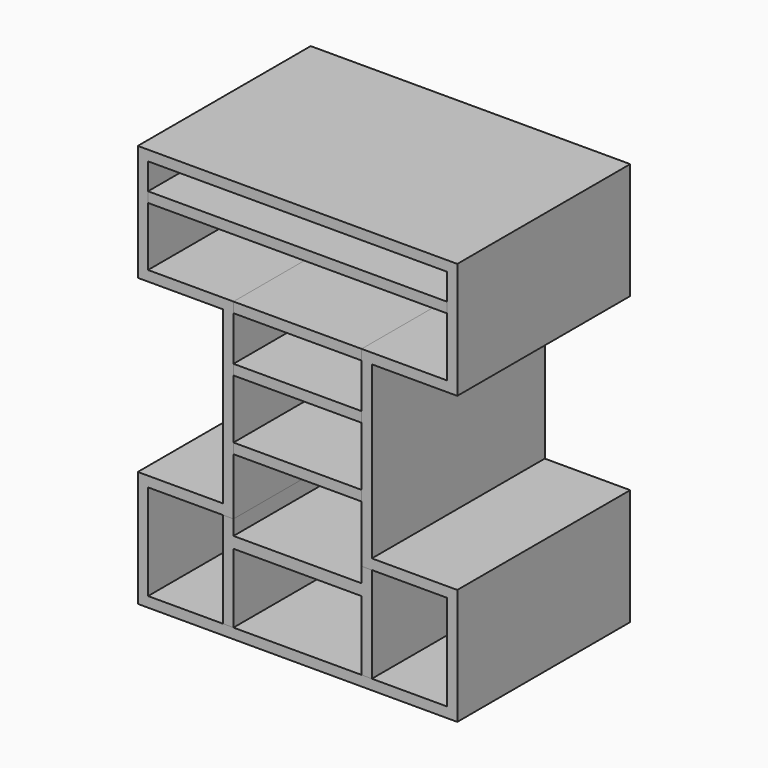
from build123d import *

# Parameters (mm, degrees)
F0_W     = 174
F0_H     = 200
F1_DEPTH = 253
F2_T     = -12
F3_W     = 350
F3_H     = 12
F4_DEPTH = 253
F3_W_2   = 150
F3_H_2   = 13.2076144218


with BuildPart() as f1:
    # F0 (on Front) → F1 (new body)
    with BuildSketch(Plane.XZ):
        Polygon((-87, -100), (-187, -100), (-187, -236), (187, -236), (187, -100), (87, -100), align=None)
        Rectangle(F0_W, F0_H)
        Polygon((187, 236), (-187, 236), (-187, 100), (-87, 100), (87, 100), (187, 100), align=None)
    extrude(amount=-F1_DEPTH)

    # F2
    f2_openings = [f1.faces().sort_by_distance(p)[0] for p in [
        (0, 0, 0),
    ]]
    offset(amount=F2_T, openings=f2_openings, kind=Kind.INTERSECTION)


with BuildPart() as f4:
    # F3 (on face) → F4 (new body)
    with BuildSketch(Plane.XZ):
        with Locations((0, 187.1330020428)):
            Rectangle(F3_W, F3_H)
    extrude(amount=-F4_DEPTH)


with BuildPart() as f4b:
    # F3 (on face) → F4, piece 2 (new body)
    with BuildSketch(Plane.XZ):
        with Locations((0, 106)):
            Rectangle(F3_W_2, F3_H)
    extrude(amount=-F4_DEPTH)


with BuildPart() as f4c:
    # F3 (on face) → F4, piece 3 (new body)
    with BuildSketch(Plane.XZ):
        with Locations((0, 41.8492396772)):
            Rectangle(F3_W_2, F3_H)
    extrude(amount=-F4_DEPTH)


with BuildPart() as f4d:
    # F3 (on face) → F4, piece 4 (new body)
    with BuildSketch(Plane.XZ):
        with Locations((0, -39.2832505107)):
            Rectangle(F3_W_2, F3_H)
    extrude(amount=-F4_DEPTH)


with BuildPart() as f4e:
    # F3 (on face) → F4, piece 5 (new body)
    with BuildSketch(Plane.XZ):
        with Locations((0, -136.1642181873)):
            Rectangle(F3_W_2, F3_H_2)
        Polygon((-75, -129.5604109764), (-75, -112), (-87, -112), (-87, -224), (-75, -224), (-75, -142.7680253983), align=None)
        Polygon((87, -112), (75, -112), (75, -129.5604109764), (75, -142.7680253983), (75, -224), (87, -224), align=None)
    extrude(amount=-F4_DEPTH)


solid = Compound([f1.part, f4.part, f4b.part, f4c.part, f4d.part, f4e.part])
